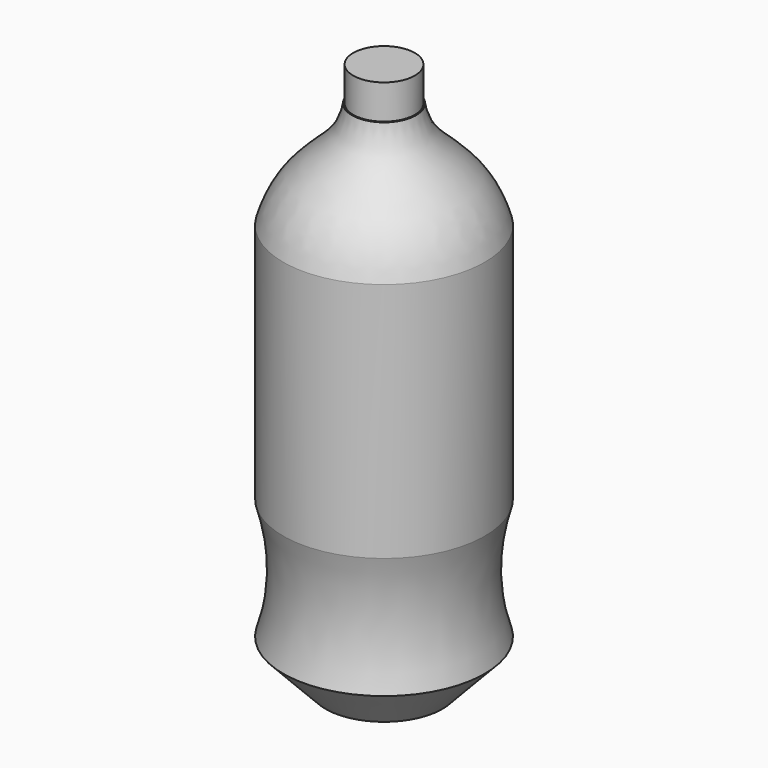
from build123d import *


with BuildPart() as f1:
    # F0 (on Right) → F1 (revolve)
    with BuildSketch(Plane.YZ):
        with BuildLine():
            Line((0, -31.489287), (0, -32.924928))
            Line((0, -32.924928), (11.622462, -32.924928))
            Line((11.622462, -32.924928), (19.999593, -24.056212))
            add(Edge.make_bspline(
                [(19.999593, -24.056212), (17.396746, -16.114077), (17.657735, -7.724358), (19.999593, 0)],
                knots=[0, 0, 0, 0, 24.056212, 24.056212, 24.056212, 24.056212], degree=3))
            Line((19.999593, 0), (19.999593, 47.861013))
            add(Edge.make_bspline(
                [(19.999593, 47.861013), (16.597867, 60.171429), (7.622306, 59.965661), (6.374207, 69.110181)],
                knots=[0, 0, 0, 0, 25.24239, 25.24239, 25.24239, 25.24239], degree=3))
            Line((6.374207, 69.110181), (6.358525, 69.110181))
            Line((6.358525, 69.110181), (6.111381, 69.110181))
            Line((6.111381, 69.110181), (5.864237, 69.110181))
            add(Edge.make_bspline(
                [(5.864237, 69.110181), (6.431991, 59.965661), (16.597867, 58.923964), (18.760797, 48.862453)],
                knots=[0, 0, 0, 0, 24.006077, 24.006077, 24.006077, 24.006077], degree=3))
            Line((18.760797, 48.862453), (18.760797, 0))
            add(Edge.make_bspline(
                [(18.760797, 0), (16.353968, -7.724358), (17.396746, -16.114077), (18.760797, -24.074806)],
                knots=[0, 0, 0, 0, 24.074806, 24.074806, 24.074806, 24.074806], degree=3))
            Line((18.760797, -24.074806), (11.757294, -31.489287))
            Line((11.757294, -31.489287), (0, -31.489287))
        make_face()
        Polygon((0, 75.95484), (0, 69.110181), (5.864237, 69.110181), (6.111381, 69.110181), (6.111381, 75.95484), align=None)
    revolve(axis=Axis((0, 0, 10.99069), (0, 0, 1)))


solid = f1.part
